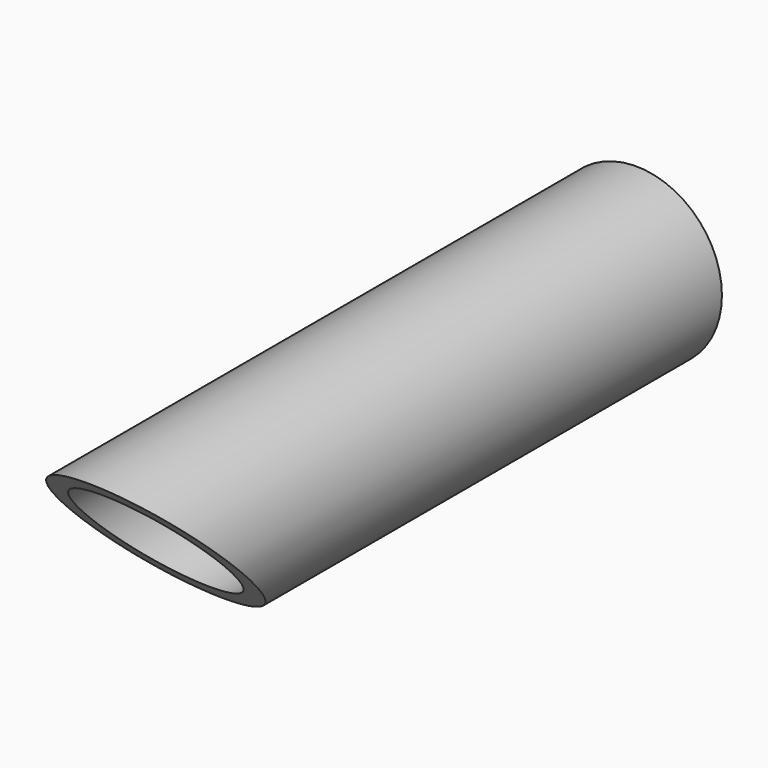
from build123d import *

# Parameters (mm, degrees)
F0_R     = 15.875
F0_R_2   = 12.7
F1_DEPTH = 127
F5_W     = 160.602808
F5_H     = 111.563783
F6_DEPTH = 25.4


with BuildPart() as f1:
    # F0 (on Front) → F1 (new body)
    with BuildSketch(Plane.XZ):
        Circle(F0_R)
        Circle(F0_R_2, mode=Mode.SUBTRACT)
    extrude(amount=F1_DEPTH)

    # F5 (on face) → F6 (cut)
    with BuildSketch(Plane(origin=(0, -55.5625, -55.5625), x_dir=(-1, 0, 0), z_dir=(0, 0.707107, 0.707107))):
        with Locations((-3.472269, 87.465564)):
            Rectangle(F5_W, F5_H)
    extrude(amount=-F6_DEPTH, mode=Mode.SUBTRACT)


solid = f1.part
